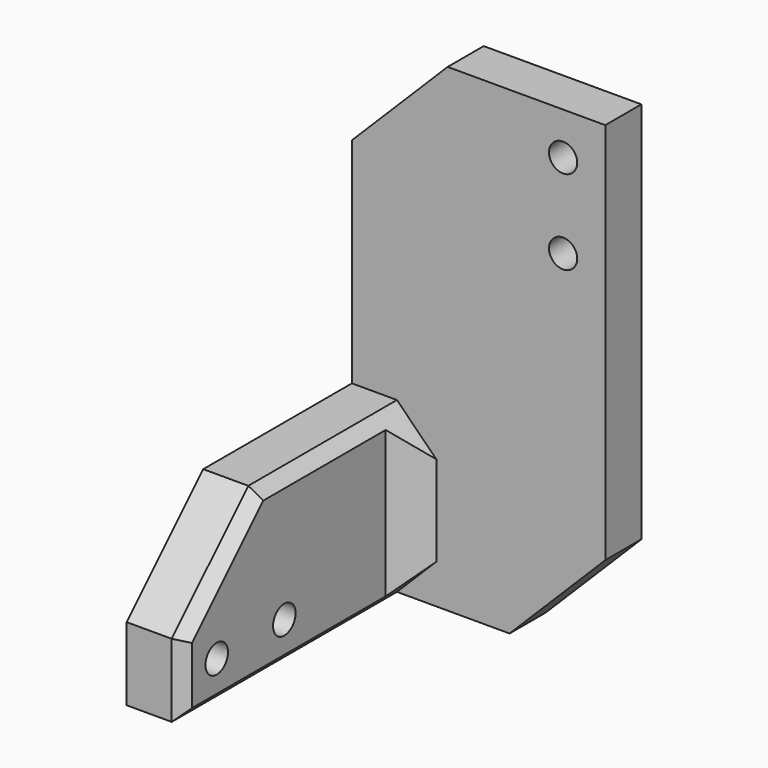
from build123d import *

# Parameters (mm, degrees)
SKETCH_W        = 45
SKETCH_H        = 85
PAD_DEPTH       = 10
SKETCH001_W     = 10
SKETCH001_H     = 30
PAD001_DEPTH    = 50
SKETCH002_R     = 2.5
POCKET_DEPTH    = 10
SKETCH003_R     = 2.5
POCKET001_DEPTH = 11
POCKET002_DEPTH = 5
CHAMFER_SIZE    = 17
CHAMFER001_SIZE = 2
CHAMFER002_SIZE = 5


with BuildPart() as part:
    # Sketch → Pad (new body)
    with BuildSketch(Plane.XZ):
        Rectangle(SKETCH_W, SKETCH_H)
    extrude(amount=PAD_DEPTH)

    # Sketch001 (on Face6 of Pad) → Pad001 (join)
    with BuildSketch(Plane.XZ.offset(10)):
        with Locations((-17.5, -27.5)):
            Rectangle(SKETCH001_W, SKETCH001_H)
    extrude(amount=PAD001_DEPTH)

    # Sketch002 (on Face7 of Pad001) → Pocket (cut)
    with BuildSketch(Plane(origin=(-22.5, 0, 0), x_dir=(0, 0, -1), z_dir=(-1, 0, 0))):
        with Locations((35, 52.5)):
            Circle(SKETCH002_R)
        with Locations((35, 37.5)):
            Circle(SKETCH002_R)
    extrude(amount=-POCKET_DEPTH, mode=Mode.SUBTRACT)

    # Sketch003 (on Face5 of Pocket) → Pocket001 (cut)
    with BuildSketch(Plane.XZ.offset(10)):
        with Locations((15, 35)):
            Circle(SKETCH003_R)
        with Locations((15, 20)):
            Circle(SKETCH003_R)
    extrude(amount=-POCKET001_DEPTH, mode=Mode.SUBTRACT)

    # Sketch004 (on Face4 of Pocket001) → Pocket002 (cut)
    with BuildSketch(Plane(origin=(0, 0, 0), x_dir=(1, 0, 0), z_dir=(0, 1, 0))):
        Polygon((15, -24.75), (19.113621, -22.375), (19.113621, -17.625), (15, -15.25), (10.886379, -17.625), (10.886379, -22.375), align=None)
        Polygon((19.113621, -37.375), (19.113621, -32.625), (15, -30.25), (10.886379, -32.625), (10.886379, -37.375), (15, -39.75), align=None)
    extrude(amount=-POCKET002_DEPTH, mode=Mode.SUBTRACT)

    # Chamfer
    chamfer_edges = [part.edges().sort_by_distance(p)[0] for p in [
        (22.5, -5, -42.5),
        (-22.5, -5, 42.5),
        (-17.5, -60, -12.5),
    ]]
    chamfer(chamfer_edges, length=CHAMFER_SIZE)

    # Chamfer001
    chamfer001_edges = [part.edges().sort_by_distance(p)[0] for p in [
        (-12.5, -26.5, -12.5),
        (-12.5, -51.5, -21),
        (-12.5, -60, -36),
        (-12.5, -35, -42.5),
        (22.5, 0, 8.5),
        (14, 0, -34),
        (-22.5, 0, -8.5),
        (-14, 0, 34),
        (8.5, 0, 42.5),
        (-8.5, 0, -42.5),
    ]]
    chamfer(chamfer001_edges, length=CHAMFER001_SIZE)

    # Chamfer002
    chamfer002_edges = [part.edges().sort_by_distance(p)[0] for p in [
        (-12.5, -10, -27.5),
    ]]
    chamfer(chamfer002_edges, length=CHAMFER002_SIZE)


solid = part.part
